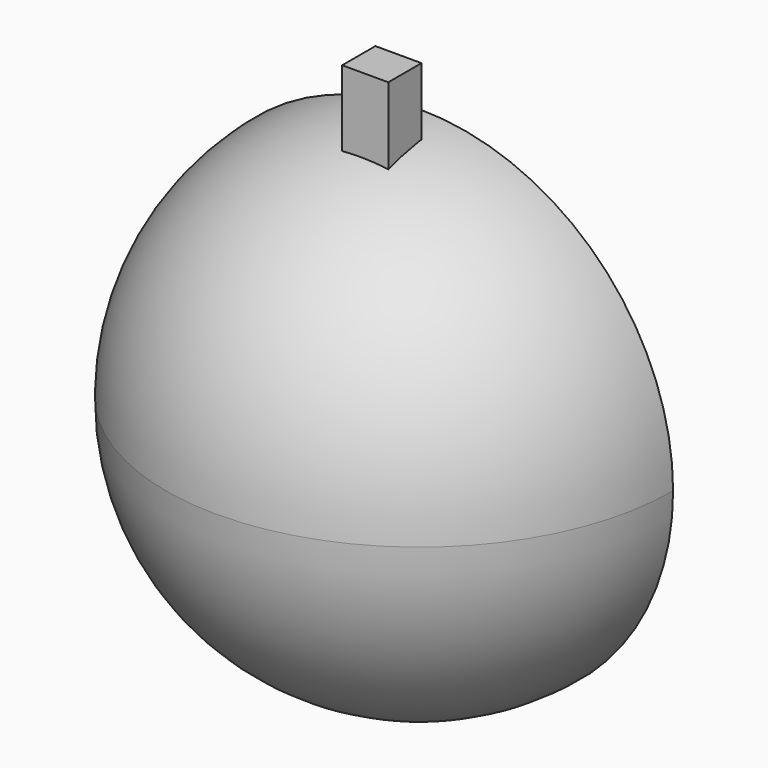
from build123d import *

# Parameters (mm, degrees)
F1_ANGLE  = 180
F2_R      = 16.9719128431
F3_DEPTH  = 2
F7_DEPTH  = 2.5
F10_DEPTH = 5
F11_R     = 1.1659909648
F12_DEPTH = 5
F12_TAPER = -3
F16_DEPTH = 10
F14_R     = 0.9885281379
F17_DEPTH = 5
F13_R     = 1.2775037523
F13_R_2   = 16.9719128431
F18_DEPTH = 5
F20_DEPTH = 10
F24_DEPTH = 10
F25_DEPTH = 5
F26_DEPTH = 5
F27_DEPTH = 5
F28_W     = 3.6372563336
F28_H     = 3.2731387764
F29_DEPTH = 25
F30_R     = 1.1105967882
F31_DEPTH = 25


with BuildPart() as f1:
    # F0 (on Front) → F1 (revolve)
    with BuildSketch(Plane.XZ):
        with BuildLine():
            ThreePointArc((0, -20), (14.1421356237, -14.1421356237), (20, 0))
            ThreePointArc((20, 0), (14.1421356237, 14.1421356237), (0, 20))
            Line((0, 20), (0, -20))
        make_face()
    revolve(axis=Axis((0, 0, 0), (0, 0, -1)), revolution_arc=F1_ANGLE)

    # F2 (on Front) → F3 (cut)
    with BuildSketch(Plane.XZ):
        Circle(F2_R)
    extrude(amount=F3_DEPTH, mode=Mode.SUBTRACT)



with BuildPart() as f5:
    # F4 (on face) → F5 (revolve)
    with BuildSketch(Plane.XZ):
        with BuildLine():
            Line((5.7109128684, -10.0609678775), (10.0971478969, -5.3000743501))
            ThreePointArc((10.0971478969, -5.3000743501), (5.4145087435, -5.386912371), (5.7109128684, -10.0609678775))
        make_face()
    revolve(axis=Axis((7.9040303826, 0, -7.6805211138), (-0.6775761671, 0, -0.7354526074)))


with BuildPart() as f7:
    # F6 (on face) → F7 (new body)
    with BuildSketch(Plane.XZ):
        with BuildLine():
            add(Edge.make_bspline(
                [(-10.6358714402, -1.0528825223), (-6.8298196944, -1.0528825223), (-8.7328455673, 6.1120772734), (-10.6358714402, 13.2770370692), (-12.5388973131, 6.1120772734), (-14.441923186, -1.0528825223), (-10.6358714402, -1.0528825223)],
                knots=[0, 0, 0, 2.0943951024, 2.0943951024, 4.1887902048, 4.1887902048, 6.2831853072, 6.2831853072, 6.2831853072], degree=2, weights=[1, 0.5, 1, 0.5, 1, 0.5, 1]))
        make_face()
    extrude(amount=F7_DEPTH)


with BuildPart() as f10:
    # F8 (on face) → F10 (new body)
    with BuildSketch(Plane.XZ):
        with BuildLine():
            add(Edge.make_bspline(
                [(10.0488653407, 6.2845945358), (11.314359398, 8.0122377071), (6.9092579174, 9.9116557883), (2.5041564368, 11.8110738695), (5.6437638601, 8.184012617), (8.7833712834, 4.5569513646), (10.0488653407, 6.2845945358)],
                knots=[0, 0, 0, 2.0943951024, 2.0943951024, 4.1887902048, 4.1887902048, 6.2831853072, 6.2831853072, 6.2831853072], degree=2, weights=[1, 0.5, 1, 0.5, 1, 0.5, 1]))
        make_face()
    extrude(amount=F10_DEPTH)


with BuildPart() as f12:
    # F11 (on face) → F12 (new body)
    with BuildSketch(Plane.XZ):
        with Locations((-6.1693994941, -6.4545793407)):
            Circle(F11_R)
    extrude(amount=F12_DEPTH, taper=F12_TAPER)


with BuildPart() as f16:
    # F15 (on face) → F16 (new body)
    with BuildSketch(Plane.XZ):
        with BuildLine():
            add(Edge.make_bspline(
                [(2.0783916116, 6.0861278325), (0.4821088783, 8.4887308702), (-1.8373371724, 5.2161129974), (-4.1567832232, 1.9434951246), (-0.2410544391, 2.8135099597), (3.6746743449, 3.6835247949), (2.0783916116, 6.0861278325)],
                knots=[0, 0, 0, 2.0943951024, 2.0943951024, 4.1887902048, 4.1887902048, 6.2831853072, 6.2831853072, 6.2831853072], degree=2, weights=[1, 0.5, 1, 0.5, 1, 0.5, 1]))
        make_face()
    extrude(amount=F16_DEPTH)


with BuildPart() as f17:
    # F14 (on face) → F17 (new body)
    with BuildSketch(Plane.XZ):
        with Locations((11.959489435, 2.318311017)):
            Circle(F14_R)
    extrude(amount=F17_DEPTH)


with BuildPart() as f17b:
    # F13 (on face) → F17, piece 2 (new body)
    with BuildSketch(Plane.XZ):
        with Locations((-1.9192695618, -7.3409117758)):
            Circle(F13_R)
    extrude(amount=F17_DEPTH)


with BuildPart() as f18:
    # F13 (on face) → F18 (new body)
    with BuildSketch(Plane.XZ):
        Circle(F13_R_2)
        with Locations((-1.9192695618, -7.3409117758)):
            Circle(F13_R, mode=Mode.SUBTRACT)
    extrude(amount=F18_DEPTH)


with BuildPart() as f20:
    # F19 (on face) → F20 (new body)
    with BuildSketch(Plane.XZ):
        with BuildLine():
            add(Edge.make_bspline(
                [(9.9518653005, -3.4141540527), (10.5608584181, -3.1216851715), (8.813269148, -0.2630408527), (7.065679878, 2.595603466), (8.2042760305, -0.555509734), (9.342872183, -3.706622934), (9.9518653005, -3.4141540527)],
                knots=[0, 0, 0, 2.0943951024, 2.0943951024, 4.1887902048, 4.1887902048, 6.2831853072, 6.2831853072, 6.2831853072], degree=2, weights=[1, 0.5, 1, 0.5, 1, 0.5, 1]))
        make_face()
    extrude(amount=F20_DEPTH)


with BuildPart() as f1_1:
    add(f1.part)

    add(f18.part)  # F24 merges F18
    # F22 (on face) → F24 (join)
    with BuildSketch(Plane.XZ):
        with BuildLine():
            add(Edge.make_bspline(
                [(0.9887716733, -8.5670538247), (0.5894283436, -8.7692216038), (2.1142083522, -11.2856328487), (3.6389883608, -13.8020440936), (2.5135516819, -11.0834650696), (1.388115003, -8.3648860455), (0.9887716733, -8.5670538247)],
                knots=[0, 0, 0, 2.0943951024, 2.0943951024, 4.1887902048, 4.1887902048, 6.2831853072, 6.2831853072, 6.2831853072], degree=2, weights=[1, 0.5, 1, 0.5, 1, 0.5, 1]))
        make_face()
    extrude(amount=F24_DEPTH)

    # F30 (on Front) → F31 (cut)
    with BuildSketch(Plane.XZ):
        with Locations((0.4220425617, 23.9257775247)):
            Circle(F30_R)
    extrude(amount=-F31_DEPTH, mode=Mode.SUBTRACT)


with BuildPart() as f25:
    # F23 (on face) → F25 (new body)
    with BuildSketch(Plane.XZ):
        with BuildLine():
            add(Edge.make_bspline(
                [(3.6528946366, -10.0725870579), (4.099630967, -9.9010033821), (2.4251608328, -6.2086970689), (0.7506906986, -2.5163907558), (1.9784245024, -6.3802807448), (3.2061583062, -10.2441707338), (3.6528946366, -10.0725870579)],
                knots=[0, 0, 0, 2.0943951024, 2.0943951024, 4.1887902048, 4.1887902048, 6.2831853072, 6.2831853072, 6.2831853072], degree=2, weights=[1, 0.5, 1, 0.5, 1, 0.5, 1]))
        make_face()
    extrude(amount=F25_DEPTH)


with BuildPart() as f26:
    # F21 (on face) → F26 (new body)
    with BuildSketch(Plane.XZ):
        with BuildLine():
            add(Edge.make_bspline(
                [(2.9493782204, -10.4412473738), (3.4037329925, -10.2346360749), (1.4555226531, -6.5532526034), (-0.4926876863, -2.8718691319), (1.001167881, -6.7598639023), (2.4950234483, -10.6478586727), (2.9493782204, -10.4412473738)],
                knots=[0, 0, 0, 2.0943951024, 2.0943951024, 4.1887902048, 4.1887902048, 6.2831853072, 6.2831853072, 6.2831853072], degree=2, weights=[1, 0.5, 1, 0.5, 1, 0.5, 1]))
        make_face()
    extrude(amount=F26_DEPTH)


with BuildPart() as f27:
    # F22 (on face) → F27 (new body)
    with BuildSketch(Plane.XZ):
        with BuildLine():
            add(Edge.make_bspline(
                [(0.9887716733, -8.5670538247), (0.5894283436, -8.7692216038), (2.1142083522, -11.2856328487), (3.6389883608, -13.8020440936), (2.5135516819, -11.0834650696), (1.388115003, -8.3648860455), (0.9887716733, -8.5670538247)],
                knots=[0, 0, 0, 2.0943951024, 2.0943951024, 4.1887902048, 4.1887902048, 6.2831853072, 6.2831853072, 6.2831853072], degree=2, weights=[1, 0.5, 1, 0.5, 1, 0.5, 1]))
        make_face()
    extrude(amount=F27_DEPTH)


with BuildPart() as f29:
    # F28 (on Top) → F29 (new body)
    with BuildSketch(Plane.XY):
        with Locations((0.4361801548, -4.2601004243)):
            Rectangle(F28_W, F28_H)
    extrude(amount=F29_DEPTH)


solid = Compound([f5.part, f7.part, f10.part, f12.part, f16.part, f17.part, f17b.part, f20.part, f1_1.part, f25.part, f26.part, f27.part, f29.part])
